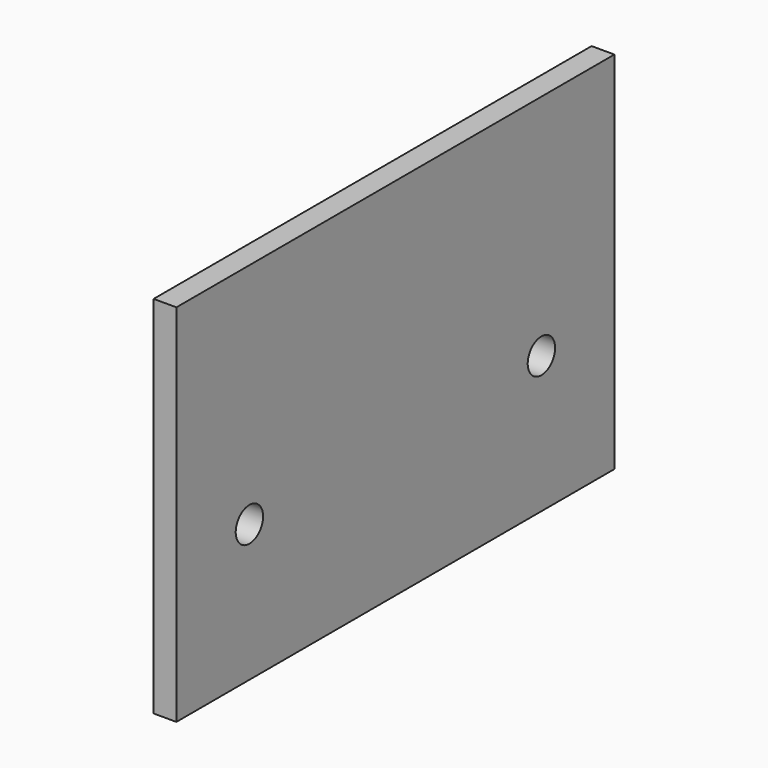
from build123d import *

# Parameters (mm, degrees)
F0_W     = 3.175
F0_H     = 50.8
F1_DEPTH = 38.1
F2_R     = 2.38125
F3_DEPTH = 25.4


with BuildPart() as f1:
    # F0 (on Front) → F1 (new body, symmetric)
    with BuildSketch(Plane.XZ):
        Rectangle(F0_W, F0_H)
    extrude(amount=F1_DEPTH, both=True)

    # F2 (on face) → F3 (cut)
    with BuildSketch(Plane.YZ.offset(1.5875)):
        with Locations((25.4, -6.35)):
            Circle(F2_R)
        with Locations((-25.4, -6.35)):
            Circle(F2_R)
    extrude(amount=-F3_DEPTH, mode=Mode.SUBTRACT)


solid = f1.part
